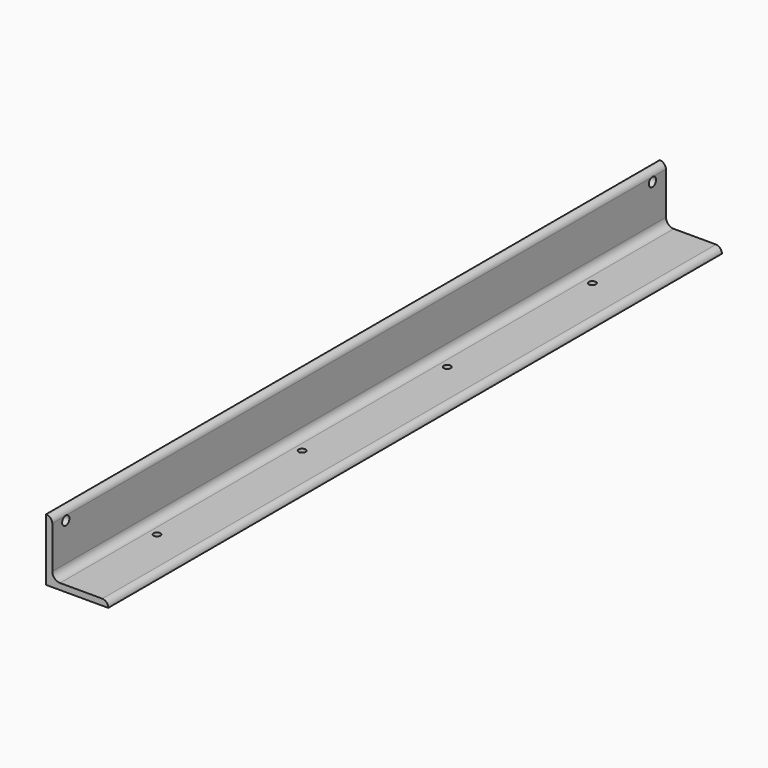
from build123d import *

# Parameters (mm, degrees)
F2_DEPTH = 1480
F4_D     = 17.5
F6_D     = 13.5


with BuildPart() as f2:
    # F1 (on Front) → F2 (new body)
    with BuildSketch(Plane.XZ):
        with BuildLine():
            Line((0, 120), (0, 0))
            Line((0, 0), (120, 0))
            ThreePointArc((120, 0), (116.6491099907, 8.3182267562), (108.4678506053, 11.9908763571))
            Line((108.4678506053, 11.9908763571), (27.0373860807, 12.047892481))
            ThreePointArc((27.0373860807, 12.047892481), (16.4412870863, 16.4412870863), (12.047892481, 27.0373860807))
            Line((12.047892481, 27.0373860807), (11.9908763571, 108.4678506053))
            ThreePointArc((11.9908763571, 108.4678506053), (8.3182267562, 116.6491099907), (0, 120))
        make_face()
    extrude(amount=-F2_DEPTH)

    # F4 (through all)
    with Locations(Plane(origin=(12.0668176491, 0, 0.0084489653), x_dir=(0, 1, 0), z_dir=(0.9999997549, 0, 0.0007001816))):
        with Locations((32.5, 100), (1447.5, 100)):
            Hole(F4_D / 2)

    # F6 (through all)
    with Locations(Plane(origin=(0.0084489653, 0, 12.0668176491), x_dir=(0.9999997549, 0, -0.0007001816), z_dir=(0.0007001816, 0, 0.9999997549))):
        with Locations((42.0289584485, 215), (42.0289584485, 565), (42.0289584485, 915), (42.0289584485, 1265)):
            Hole(F6_D / 2)


solid = f2.part
